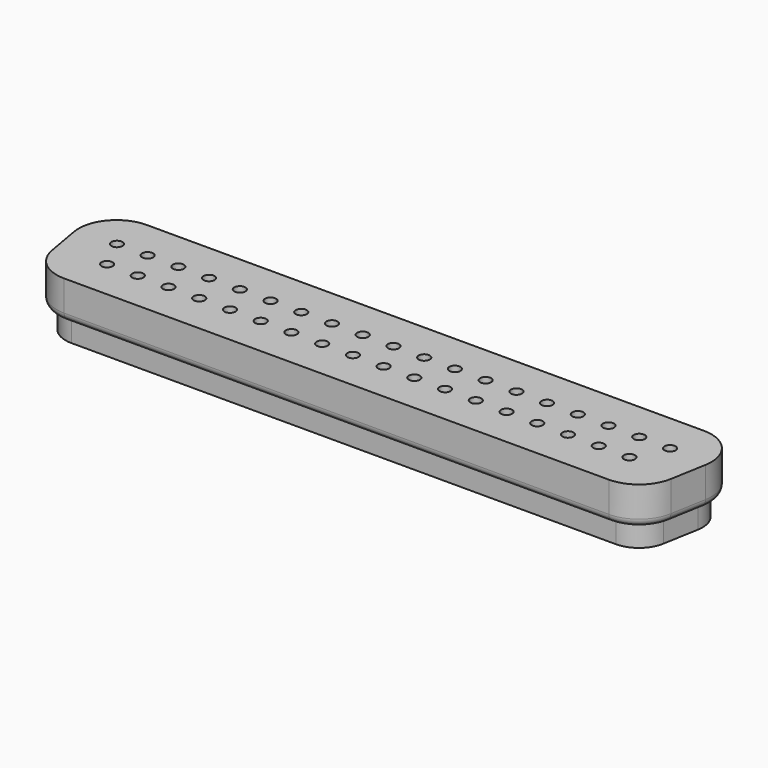
from build123d import *

# Parameters (mm, degrees)
ARRAY005_X_COUNT = 19
ARRAY005_X_PITCH = 2.77
ARRAY004_X_COUNT = 18
ARRAY004_X_PITCH = 2.77
SKETCH016_R      = 0.7
PAD006_DEPTH     = 0.5
ARRAY_X_COUNT    = 19
ARRAY_X_PITCH    = 2.77
SKETCH017_R      = 0.7
PAD007_DEPTH     = 0.5
ARRAY001_X_COUNT = 18
ARRAY001_X_PITCH = 2.77
PAD004_DEPTH     = 3.45
PAD005_DEPTH     = 2
FILLET007_R      = 0.7


with BuildPart() as array005:
    # Sketch020 → Revolution004 (revolve)
    with BuildSketch(Plane.XZ):
        with BuildLine():
            Line((0, 5), (0, -10.75))
            ThreePointArc((0, -10.75), (0.212132, -10.662132), (0.3, -10.45))
            Line((0.3, -10.45), (0.3, -2))
            Line((0.3, -2), (0.5, -2))
            Line((0.5, -2), (0.5, 4.5))
            ThreePointArc((0.5, 4.5), (0.353553, 4.853553), (0, 5))
        make_face()
    revolve(axis=Axis((0, 0, 0), (0, 0, 1)))


with BuildPart() as array005_1:
    # Body011 placement: moved
    add(array005.part.moved(Location((-24.93, 1.42, 0))))

    # Array005 X: Array005 ×19


with BuildPart() as array005_2:
    add(array005_1.part)
    with Locations(*[(i * ARRAY005_X_PITCH, 0, 0) for i in range(1, ARRAY005_X_COUNT)]):
        add(array005_1.part)


with BuildPart() as fusion001:
    # Sketch021 → Revolution005 (revolve)
    with BuildSketch(Plane.XZ):
        with BuildLine():
            Line((0, 5), (0, -10.75))
            ThreePointArc((0, -10.75), (0.212132, -10.662132), (0.3, -10.45))
            Line((0.3, -10.45), (0.3, -2))
            Line((0.3, -2), (0.5, -2))
            Line((0.5, -2), (0.5, 4.5))
            ThreePointArc((0.5, 4.5), (0.353553, 4.853553), (0, 5))
        make_face()
    revolve(axis=Axis((0, 0, 0), (0, 0, 1)))


with BuildPart() as fusion001_1:
    # Body012 placement: moved
    add(fusion001.part.moved(Location((-23.545, -1.42, 0))))

    # Array004 X: Fusion001 ×18


with BuildPart() as fusion001_2:
    add(fusion001_1.part)
    with Locations(*[(i * ARRAY004_X_PITCH, 0, 0) for i in range(1, ARRAY004_X_COUNT)]):
        add(fusion001_1.part)

    # Fusion001: union Array005
    add(array005_2.part)


with BuildPart() as array:
    # Sketch016 → Pad006 (new body)
    with BuildSketch(Plane.XY):
        Circle(SKETCH016_R)
    extrude(amount=-PAD006_DEPTH)


with BuildPart() as array_1:
    # Body007 placement: moved
    add(array.part.moved(Location((-24.93, 1.42, -5.45))))

    # Array X: Array ×19


with BuildPart() as array_2:
    add(array_1.part)
    with Locations(*[(i * ARRAY_X_PITCH, 0, 0) for i in range(1, ARRAY_X_COUNT)]):
        add(array_1.part)


with BuildPart() as array001:
    # Sketch017 → Pad007 (new body)
    with BuildSketch(Plane.XY):
        Circle(SKETCH017_R)
    extrude(amount=-PAD007_DEPTH)


with BuildPart() as array001_1:
    # Body008 placement: moved
    add(array001.part.moved(Location((-23.545, -1.42, -5.45))))

    # Array001 X: Array001 ×18


with BuildPart() as array001_2:
    add(array001_1.part)
    with Locations(*[(i * ARRAY001_X_PITCH, 0, 0) for i in range(1, ARRAY001_X_COUNT)]):
        add(array001_1.part)


with BuildPart() as cut:
    # Sketch014 → Pad004 (new body)
    with BuildSketch(Plane.XY):
        with BuildLine():
            Line((-25.11, 5), (25.11, 5))
            ThreePointArc((28.458211, 1.008831), (27.714801, 3.78518), (25.11, 5))
            Line((28.458211, 1.008831), (27.893211, -2.191169))
            ThreePointArc((24.545, -5), (26.73018, -4.204801), (27.893211, -2.191169))
            Line((24.545, -5), (-24.545, -5))
            ThreePointArc((-27.893211, -2.191169), (-26.73018, -4.204801), (-24.545, -5))
            Line((-27.893211, -2.191169), (-28.458211, 1.008831))
            ThreePointArc((-25.11, 5), (-27.714801, 3.78518), (-28.458211, 1.008831))
        make_face()
    extrude(amount=-PAD004_DEPTH)

    # Sketch015 (on Face10 of Pad004) → Pad005 (join)
    with BuildSketch(Plane(origin=(0, 0, -3.45), x_dir=(1, 0, 0), z_dir=(0, 0, -1))):
        with BuildLine():
            Line((-24.545, 4.2), (24.545, 4.2))
            ThreePointArc((27.105397, 2.05207), (26.21602, 3.591906), (24.545, 4.2))
            Line((27.105397, 2.05207), (27.670397, -1.14793))
            ThreePointArc((25.11, -4.2), (27.101906, -3.27102), (27.670397, -1.14793))
            Line((25.11, -4.2), (-25.11, -4.2))
            ThreePointArc((-27.670397, -1.14793), (-27.101906, -3.27102), (-25.11, -4.2))
            Line((-27.670397, -1.14793), (-27.105397, 2.05207))
            ThreePointArc((-24.545, 4.2), (-26.21602, 3.591906), (-27.105397, 2.05207))
        make_face()
    extrude(amount=PAD005_DEPTH)

    # Fillet007
    fillet007_edges = [cut.edges().sort_by_distance(p)[0] for p in [
        (-28.175711, -0.591169, -3.45),
    ]]
    fillet(fillet007_edges, radius=FILLET007_R)

    # Fusion: union Array, Array001
    add(array_2.part)
    add(array001_2.part)

    # Cut: cut Fusion001
    add(fusion001_2.part, mode=Mode.SUBTRACT)


solid = cut.part
